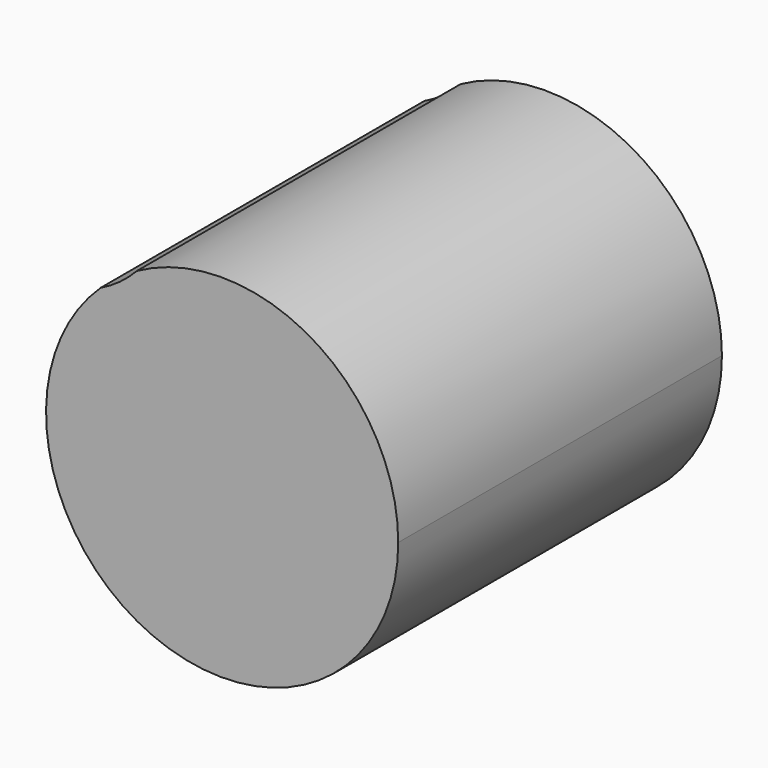
from build123d import *

# Parameters (mm, degrees)
F1_DEPTH = 25.4


with BuildPart() as f1:
    # F0 (on Front) → F1 (new body)
    with BuildSketch(Plane.XZ):
        with BuildLine():
            ThreePointArc((-7.629159, 12.44171), (-4.351086, -5.720083), (11.054394, 4.441988))
            ThreePointArc((11.054394, 4.441988), (5.613726, 13.964892), (-5.352784, 14.113974))
            ThreePointArc((-5.352784, 14.113974), (-6.414094, 13.173193), (-7.629159, 12.44171))
        make_face()
    extrude(amount=F1_DEPTH)


solid = f1.part
